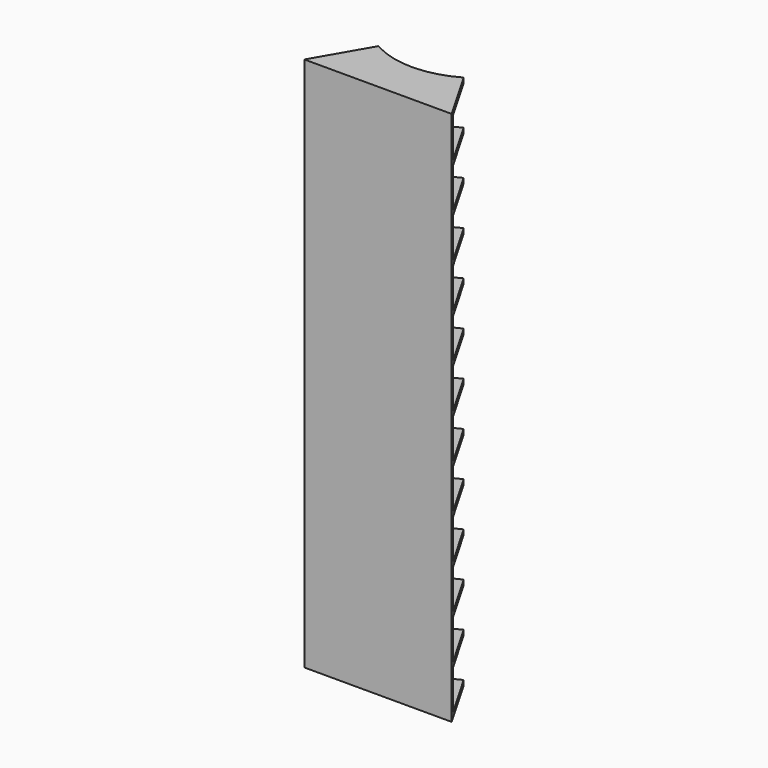
from build123d import *

# Parameters (mm, degrees)
F1_DEPTH = 54.5
F2_W     = 11
F2_H     = 8
F3_DEPTH = 17.5
F4_START = -9.5
F4_DEPTH = 17.7


with BuildPart() as f1:
    # F0 (on Top) → F1 (new body, symmetric)
    with BuildSketch(Plane.XY):
        with BuildLine():
            Line((-15, -25.9807621135), (-13.8452994616, -25.9807621135))
            Line((-13.8452994616, -25.9807621135), (-7.7845367167, -15.4832131067))
            ThreePointArc((-7.7845367167, -15.4832131067), (-8.2281965887, -15.2520713642), (-8.665, -15.0082202476))
            Line((-8.665, -15.0082202476), (-15, -25.9807621135))
        make_face()
        with BuildLine():
            Line((-13.8452994616, -25.9807621135), (0, -25.9807621135))
            Line((0, -25.9807621135), (0, -17.33))
            ThreePointArc((0, -17.33), (-4.0003010425, -16.8619836191), (-7.7845367167, -15.4832131067))
            Line((-7.7845367167, -15.4832131067), (-13.8452994616, -25.9807621135))
        make_face()
        with BuildLine():
            Line((0, -25.9807621135), (1, -25.9807621135))
            Line((1, -25.9807621135), (1, -17.3011242409))
            ThreePointArc((1, -17.3011242409), (0.5002084089, -17.3227795561), (0, -17.33))
            Line((0, -17.33), (0, -25.9807621135))
        make_face()
        with BuildLine():
            Line((1, -25.9807621135), (15, -25.9807621135))
            Line((15, -25.9807621135), (8.665, -15.0082202476))
            ThreePointArc((8.665, -15.0082202476), (4.9666294839, -16.6030566936), (1, -17.3011242409))
            Line((1, -17.3011242409), (1, -25.9807621135))
        make_face()
    extrude(amount=F1_DEPTH, both=True)

    # F2 (on Right) → F3 (cut, symmetric)
    with BuildSketch(Plane.YZ):
        with Locations((-19.4807621135, 49.5)):
            Rectangle(F2_W, F2_H)
        with Locations((-19.4807621135, 40.5)):
            Rectangle(F2_W, F2_H)
        with Locations((-19.4807621135, 31.5)):
            Rectangle(F2_W, F2_H)
        with Locations((-19.4807621135, 22.5)):
            Rectangle(F2_W, F2_H)
        with Locations((-19.4807621135, 13.5)):
            Rectangle(F2_W, F2_H)
        with Locations((-19.4807621135, 4.5)):
            Rectangle(F2_W, F2_H)
        with Locations((-19.4807621135, -4.5)):
            Rectangle(F2_W, F2_H)
        with Locations((-19.4807621135, -13.5)):
            Rectangle(F2_W, F2_H)
        with Locations((-19.4807621135, -22.5)):
            Rectangle(F2_W, F2_H)
        with Locations((-19.4807621135, -31.5)):
            Rectangle(F2_W, F2_H)
        with Locations((-19.4807621135, -40.5)):
            Rectangle(F2_W, F2_H)
        with Locations((-19.4807621135, -49.5)):
            Rectangle(F2_W, F2_H)
    extrude(amount=F3_DEPTH, both=True, mode=Mode.SUBTRACT)

    # F0 (on Top) → F4 (join)
    with BuildSketch(Plane.XY.offset(F4_START)):
        with BuildLine():
            Line((0, -25.9807621135), (1, -25.9807621135))
            Line((1, -25.9807621135), (1, -17.3011242409))
            ThreePointArc((1, -17.3011242409), (0.5002084089, -17.3227795561), (0, -17.33))
            Line((0, -17.33), (0, -25.9807621135))
        make_face()
    extrude(amount=-F4_DEPTH)


solid = f1.part
